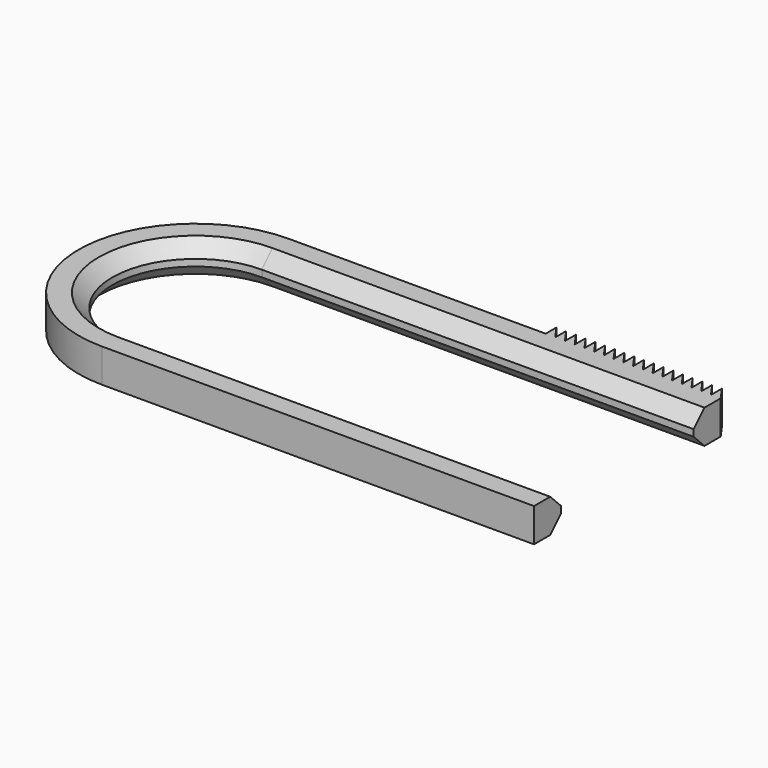
from build123d import *

# Parameters (mm, degrees)
F1_DEPTH = 5
F2_SIZE  = 2


with BuildPart() as f1:
    # F0 (on Top) → F1 (new body)
    with BuildSketch(Plane.XY):
        with BuildLine():
            ThreePointArc((-64.1, -12.313659), (-76.413659, 0), (-64.1, 12.313659))
            Line((-64.1, 12.313659), (0, 12.313659))
            Line((0, 12.313659), (0, 17.313659))
            Line((0, 17.313659), (-1.415385, 17.313659))
            Line((-1.415385, 17.313659), (-1.444437, 17.313659))
            Line((-1.444437, 17.313659), (-2.859822, 17.313659))
            Line((-2.859822, 17.313659), (-2.888881, 17.313659))
            Line((-2.888881, 17.313659), (-4.304266, 17.313659))
            Line((-4.304266, 17.313659), (-4.333325, 17.313659))
            Line((-4.333325, 17.313659), (-5.74871, 17.313659))
            Line((-5.74871, 17.313659), (-5.777769, 17.313659))
            Line((-5.777769, 17.313659), (-7.193154, 17.313659))
            Line((-7.193154, 17.313659), (-7.222209, 17.313659))
            Line((-7.222209, 17.313659), (-8.637594, 17.313659))
            Line((-8.637594, 17.313659), (-8.666649, 17.313659))
            Line((-8.666649, 17.313659), (-10.082034, 17.313659))
            Line((-10.082034, 17.313659), (-10.111086, 17.313659))
            Line((-10.111086, 17.313659), (-11.526471, 17.313659))
            Line((-11.526471, 17.313659), (-11.55553, 17.313659))
            Line((-11.55553, 17.313659), (-12.970915, 17.313659))
            Line((-12.970915, 17.313659), (-12.999974, 17.313659))
            Line((-12.999974, 17.313659), (-14.415359, 17.313659))
            Line((-14.415359, 17.313659), (-14.444418, 17.313659))
            Line((-14.444418, 17.313659), (-15.859803, 17.313659))
            Line((-15.859803, 17.313659), (-15.888858, 17.313659))
            Line((-15.888858, 17.313659), (-17.304243, 17.313659))
            Line((-17.304243, 17.313659), (-17.333302, 17.313659))
            Line((-17.333302, 17.313659), (-18.748687, 17.313659))
            Line((-18.748687, 17.313659), (-18.777739, 17.313659))
            Line((-18.777739, 17.313659), (-20.193124, 17.313659))
            Line((-20.193124, 17.313659), (-20.222183, 17.313659))
            Line((-20.222183, 17.313659), (-21.637568, 17.313659))
            Line((-21.637568, 17.313659), (-21.666627, 17.313659))
            Line((-21.666627, 17.313659), (-23.082012, 17.313659))
            Line((-23.082012, 17.313659), (-23.111071, 17.313659))
            Line((-23.111071, 17.313659), (-24.526456, 17.313659))
            Line((-24.526456, 17.313659), (-24.555511, 17.313659))
            Line((-24.555511, 17.313659), (-25.970896, 17.313659))
            Line((-25.970896, 17.313659), (-64.1, 17.313659))
            ThreePointArc((-64.1, 17.313659), (-81.413659, 0), (-64.1, -17.313659))
            Line((-64.1, -17.313659), (0, -17.313659))
            Line((0, -17.313659), (0, -12.313659))
            Line((0, -12.313659), (-64.1, -12.313659))
        make_face()
        Polygon((-8.637594, 17.313659), (-7.222209, 17.313659), (-8.637594, 19.313659), align=None)
        Polygon((-11.526471, 17.313659), (-10.111086, 17.313659), (-11.526471, 19.313659), align=None)
        Polygon((-10.082034, 17.313659), (-8.666649, 17.313659), (-10.082034, 19.313659), align=None)
        Polygon((-12.970915, 17.313659), (-11.55553, 17.313659), (-12.970915, 19.313659), align=None)
        Polygon((-1.415385, 17.313659), (0, 17.313659), (-1.415385, 19.313659), align=None)
        Polygon((-21.637568, 19.313659), (-21.637568, 17.313659), (-20.222183, 17.313659), align=None)
        Polygon((-14.415359, 17.313659), (-12.999974, 17.313659), (-14.415359, 19.313659), align=None)
        Polygon((-7.193154, 17.313659), (-5.777769, 17.313659), (-7.193154, 19.313659), align=None)
        Polygon((-15.859803, 19.313659), (-15.859803, 17.313659), (-14.444418, 17.313659), align=None)
        Polygon((-17.304243, 19.313659), (-17.304243, 17.313659), (-15.888858, 17.313659), align=None)
        Polygon((-18.748687, 19.313659), (-18.748687, 17.313659), (-17.333302, 17.313659), align=None)
        Polygon((-20.193124, 19.313659), (-20.193124, 17.313659), (-18.777739, 17.313659), align=None)
        Polygon((-4.304266, 17.313659), (-2.888881, 17.313659), (-4.304266, 19.313659), align=None)
        Polygon((-23.082012, 19.313659), (-23.082012, 17.313659), (-21.666627, 17.313659), align=None)
        Polygon((-24.526456, 19.313659), (-24.526456, 17.313659), (-23.111071, 17.313659), align=None)
        Polygon((-25.970896, 19.313659), (-25.970896, 17.313659), (-24.555511, 17.313659), align=None)
        Polygon((-2.859822, 17.313659), (-1.444437, 17.313659), (-2.859822, 19.313659), align=None)
        Polygon((-5.74871, 17.313659), (-4.333325, 17.313659), (-5.74871, 19.313659), align=None)
    extrude(amount=F1_DEPTH)

    # F2
    f2_edges = [f1.edges().sort_by_distance(p)[0] for p in [
        (-64.1, -12.313659, 2.5),
        (-64.1, 12.313659, 2.5),
        (-76.413659, 0, 0),
        (-76.413659, 0, 5),
    ]]
    chamfer(f2_edges, length=F2_SIZE)


solid = f1.part
